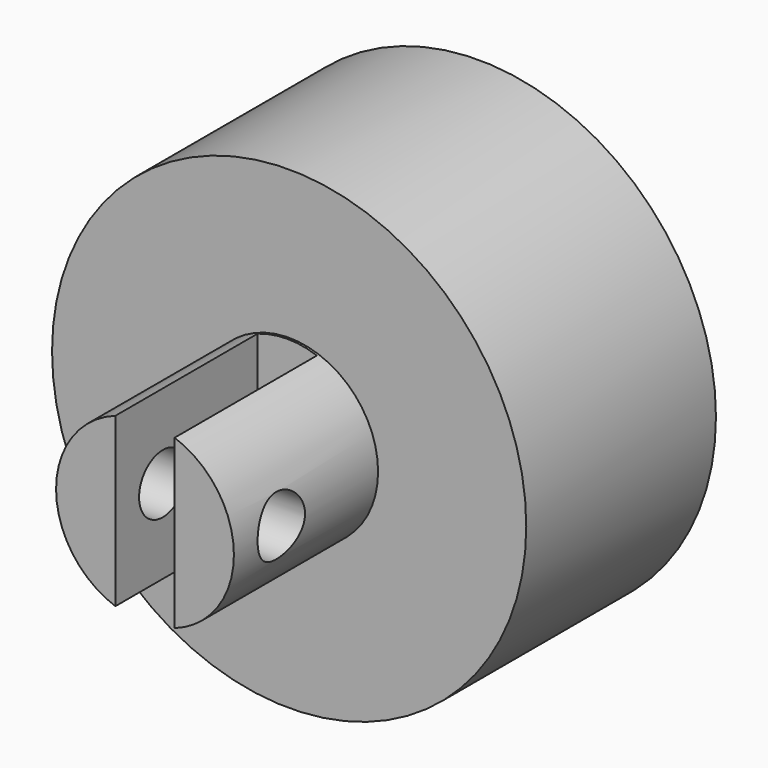
from build123d import *

# Parameters (mm, degrees)
F0_R     = 12.7
F1_DEPTH = 12.7
F2_R     = 4.7625
F3_DEPTH = 9.652
F5_DEPTH = 9.525
F6_R     = 1.5875
F7_DEPTH = 6.35


with BuildPart() as f1:
    # F0 (on Front) → F1 (new body)
    with BuildSketch(Plane.XZ):
        Circle(F0_R)
    extrude(amount=F1_DEPTH)

    # F2 (on face) → F3 (join)
    with BuildSketch(Plane.XZ.offset(12.7)):
        Circle(F2_R)
    extrude(amount=F3_DEPTH)

    # F4 (on face) → F5 (cut)
    with BuildSketch(Plane.XZ.offset(22.352)):
        with BuildLine():
            ThreePointArc((1.5875, 4.490128), (0, 4.7625), (-1.5875, 4.490128))
            Line((-1.5875, 4.490128), (-1.5875, -4.490128))
            ThreePointArc((-1.5875, -4.490128), (0, -4.7625), (1.5875, -4.490128))
            Line((1.5875, -4.490128), (1.5875, 4.490128))
        make_face()
    extrude(amount=-F5_DEPTH, mode=Mode.SUBTRACT)

    # F6 (on face) → F7 (cut, symmetric)
    with BuildSketch(Plane.YZ.offset(-1.5875)):
        with Locations((-19.177, 0)):
            Circle(F6_R)
    extrude(amount=F7_DEPTH, both=True, mode=Mode.SUBTRACT)


solid = f1.part
